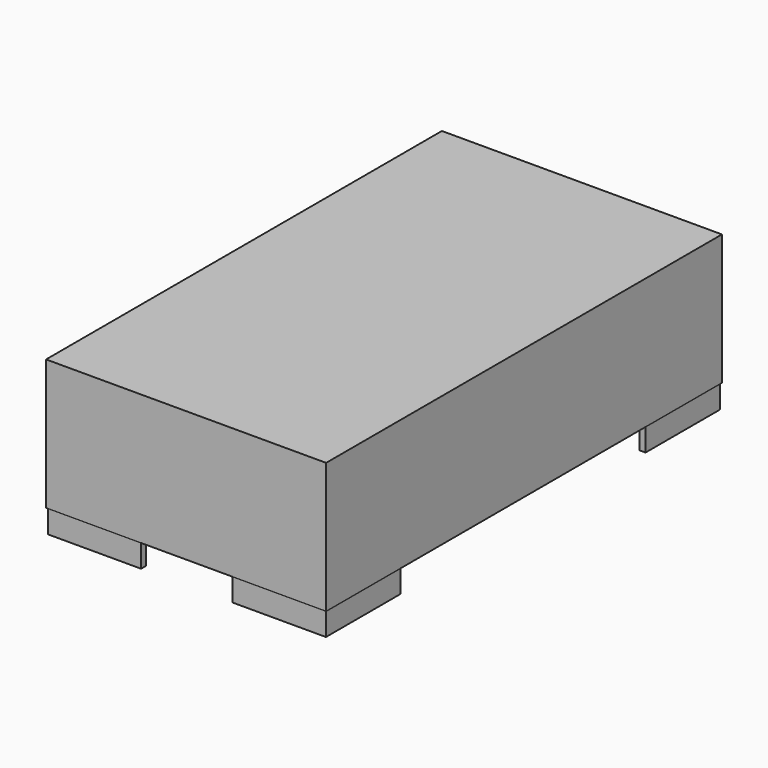
from build123d import *

# Parameters (mm, degrees)
F0_W      = 600
F0_H      = 1060
F1_DEPTH  = 280
F2_T      = -25
F3_R      = 4
F4_DEPTH  = 8
F6_DEPTH  = 30
F9_DEPTH  = 50
F10_DEPTH = 50
F11_DEPTH = 50.001


with BuildPart() as f1:
    # F0 (on Top) → F1 (new body)
    with BuildSketch(Plane.XY):
        with Locations((300, -530)):
            Rectangle(F0_W, F0_H)
    extrude(amount=F1_DEPTH)

    # F2
    f2_openings = [f1.faces().sort_by_distance(p)[0] for p in [
        (300, -530, 0),
    ]]
    offset(amount=F2_T, openings=f2_openings)

    # F3 (on face) → F4 (cut)
    with BuildSketch(Plane(origin=(0, 0, 0), x_dir=(1, 0, 0), z_dir=(0, 0, -1))):
        with Locations((10, 1050)):
            Circle(F3_R)
        with Locations((10, 881)):
            Circle(F3_R)
        with Locations((179, 1050)):
            Circle(F3_R)
        with Locations((590, 1050)):
            Circle(F3_R)
        with Locations((421, 1050)):
            Circle(F3_R)
        with Locations((590, 881)):
            Circle(F3_R)
        with Locations((10, 179)):
            Circle(F3_R)
        with Locations((10, 10)):
            Circle(F3_R)
        with Locations((179, 10)):
            Circle(F3_R)
        with Locations((421, 10)):
            Circle(F3_R)
        with Locations((590, 10)):
            Circle(F3_R)
        with Locations((590, 179)):
            Circle(F3_R)
    extrude(amount=-F4_DEPTH, mode=Mode.SUBTRACT)

    # F5 (on face) → F6 (join)
    with BuildSketch(Plane(origin=(0, 0, 255), x_dir=(1, 0, 0), z_dir=(0, 0, -1))):
        Polygon((115, 1035), (25, 1035), (25, 945), align=None)
        Polygon((485, 1035), (575, 945), (575, 1035), align=None)
        Polygon((115, 25), (25, 115), (25, 25), align=None)
        Polygon((575, 25), (575, 115), (485, 25), align=None)
    extrude(amount=F6_DEPTH)

    # F8 (on face) → F9 (join)
    with BuildSketch(Plane(origin=(0, 0, 0), x_dir=(1, 0, 0), z_dir=(0, 0, -1))):
        Polygon((202, 1058), (2, 1058), (2, 1018.136144), (2, 858), (14.5, 858), (27, 878.238261), (27, 990.695417), (66.770039, 1033), (182.782859, 1033), (202, 1045.5), align=None)
        Polygon((533.229961, 1033), (573, 990.695417), (573, 878.238261), (585.5, 858), (598, 858), (598, 1058), (398, 1058), (398, 1045.5), (417.217141, 1033), align=None)
        Polygon((14.5, 202), (2, 202), (2, 2), (202, 2), (202, 14.5), (182.782859, 27), (66.770039, 27), (27, 69.304583), (27, 181.761739), align=None)
        Polygon((533.229961, 27), (417.217141, 27), (398, 14.5), (398, 2), (598, 2), (598, 202), (585.5, 202), (573, 181.761739), (573, 69.304583), align=None)
    extrude(amount=F9_DEPTH)

    # F8 (on face) → F10 (join)
    with BuildSketch(Plane(origin=(0, 0, 0), x_dir=(1, 0, 0), z_dir=(0, 0, -1))):
        Polygon((202, 1058), (2, 1058), (2, 1018.136144), (2, 858), (14.5, 858), (27, 878.238261), (27, 990.695417), (66.770039, 1033), (182.782859, 1033), (202, 1045.5), align=None)
        Polygon((533.229961, 1033), (573, 990.695417), (573, 878.238261), (585.5, 858), (598, 858), (598, 1058), (398, 1058), (398, 1045.5), (417.217141, 1033), align=None)
        Polygon((14.5, 202), (2, 202), (2, 2), (202, 2), (202, 14.5), (182.782859, 27), (66.770039, 27), (27, 69.304583), (27, 181.761739), align=None)
        Polygon((533.229961, 27), (417.217141, 27), (398, 14.5), (398, 2), (598, 2), (598, 202), (585.5, 202), (573, 181.761739), (573, 69.304583), align=None)
    extrude(amount=F10_DEPTH)

    # F3 (on face) → F11 (cut, through all)
    with BuildSketch(Plane(origin=(0, 0, 0), x_dir=(1, 0, 0), z_dir=(0, 0, -1))):
        with Locations((10, 1050)):
            Circle(F3_R)
        with Locations((10, 881)):
            Circle(F3_R)
        with Locations((179, 1050)):
            Circle(F3_R)
        with Locations((590, 1050)):
            Circle(F3_R)
        with Locations((421, 1050)):
            Circle(F3_R)
        with Locations((590, 881)):
            Circle(F3_R)
        with Locations((10, 179)):
            Circle(F3_R)
        with Locations((10, 10)):
            Circle(F3_R)
        with Locations((179, 10)):
            Circle(F3_R)
        with Locations((421, 10)):
            Circle(F3_R)
        with Locations((590, 10)):
            Circle(F3_R)
        with Locations((590, 179)):
            Circle(F3_R)
    extrude(amount=F11_DEPTH, mode=Mode.SUBTRACT)


solid = f1.part
